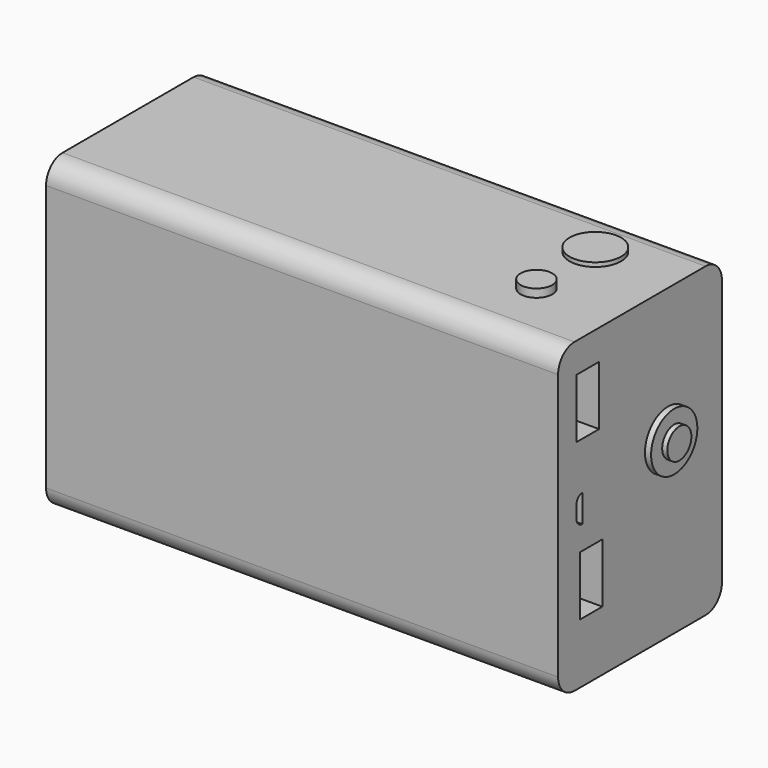
from build123d import *

# Parameters (mm, degrees)
F0_W      = 127
F0_H      = 76.2
F1_DEPTH  = 50.8
F2_R      = 5.08
F3_W      = 7
F3_H      = 14.7
F4_DEPTH  = 16.4084
F5_W      = 7
F5_H      = 14.7
F6_DEPTH  = 16.4084
F8_DEPTH  = 16.4084
F9_R      = 6.390323
F10_DEPTH = 1.016
F11_R     = 7.169195
F12_DEPTH = 1.524
F13_R     = 3.737659
F14_DEPTH = 1.27
F15_R     = 3.927786
F16_DEPTH = 2.032


with BuildPart() as f1:
    # F0 (on Front) → F1 (new body)
    with BuildSketch(Plane.XZ):
        Rectangle(F0_W, F0_H)
    extrude(amount=F1_DEPTH)

    # F2
    f2_edges = [f1.edges().sort_by_distance(p)[0] for p in [
        (0, -50.8, 38.1),
        (0, -50.8, -38.1),
        (0, 0, 38.1),
        (0, 0, -38.1),
    ]]
    fillet(f2_edges, radius=F2_R)

    # F3 (on face) → F4 (cut)
    with BuildSketch(Plane.YZ.offset(63.5)):
        with Locations((-41.585449, 23.312267)):
            Rectangle(F3_W, F3_H)
    extrude(amount=-F4_DEPTH, mode=Mode.SUBTRACT)

    # F5 (on face) → F6 (cut)
    with BuildSketch(Plane.YZ.offset(63.5)):
        with Locations((-40.580612, -15.871216)):
            Rectangle(F5_W, F5_H)
    extrude(amount=-F6_DEPTH, mode=Mode.SUBTRACT)

    # F7 (on face) → F8 (cut)
    with BuildSketch(Plane.YZ.offset(63.5)):
        with BuildLine():
            ThreePointArc((-43.285449, 4.175303), (-44.558241, 3.648095), (-45.085449, 2.375303))
            Line((-45.085449, 2.375303), (-45.085449, -0.874697))
            ThreePointArc((-45.085449, -0.874697), (-44.558241, -2.14749), (-43.285449, -2.674697))
            Line((-43.285449, -2.674697), (-43.285449, 4.175303))
        make_face()
    extrude(amount=-F8_DEPTH, mode=Mode.SUBTRACT)

    # F9 (on face) → F10 (join)
    with BuildSketch(Plane.XY.offset(38.1)):
        with Locations((43.026961, -13.670774)):
            Circle(F9_R)
    extrude(amount=F10_DEPTH)

    # F11 (on face) → F12 (join)
    with BuildSketch(Plane.YZ.offset(63.5)):
        with Locations((-16.692733, 5.036601)):
            Circle(F11_R)
    extrude(amount=F12_DEPTH)

    # F13 (on face) → F14 (join)
    with BuildSketch(Plane.YZ.offset(65.024)):
        with Locations((-16.692733, 5.036601)):
            Circle(F13_R)
    extrude(amount=F14_DEPTH)

    # F15 (on face) → F16 (join)
    with BuildSketch(Plane.XY.offset(38.1)):
        with Locations((43.746475, -32.809857)):
            Circle(F15_R)
    extrude(amount=F16_DEPTH)


solid = f1.part
